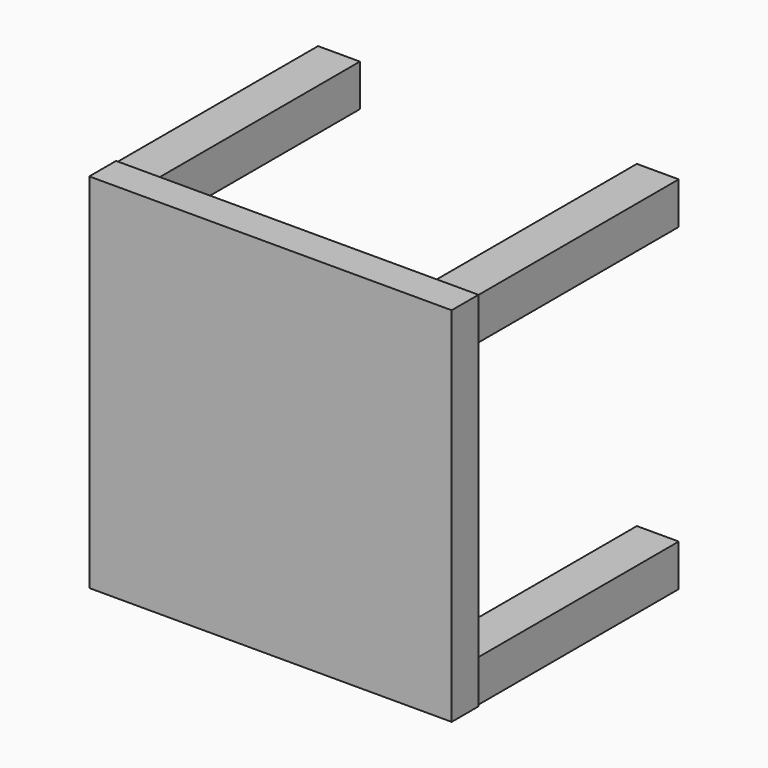
from build123d import *

# Parameters (mm, degrees)
F0_W     = 549.275
F0_H     = 549.275
F0_W_2   = 63.5
F0_H_2   = 63.5
F1_DEPTH = 50.8
F2_DEPTH = 381


with BuildPart() as f1:
    # F0 (on Front) → F1 (new body)
    with BuildSketch(Plane.XZ):
        Rectangle(F0_W, F0_H)
        with Locations((-241.6175, -241.6175)):
            Rectangle(F0_W_2, F0_H_2, mode=Mode.SUBTRACT)
        with Locations((241.6175, -241.6175)):
            Rectangle(F0_W_2, F0_H_2, mode=Mode.SUBTRACT)
        with Locations((-241.6175, 241.6175)):
            Rectangle(F0_W_2, F0_H_2, mode=Mode.SUBTRACT)
        with Locations((241.6175, 241.6175)):
            Rectangle(F0_W_2, F0_H_2, mode=Mode.SUBTRACT)
        with Locations((241.6175, 241.6175)):
            Rectangle(F0_W_2, F0_H_2)
        with Locations((-241.6175, 241.6175)):
            Rectangle(F0_W_2, F0_H_2)
        with Locations((-241.6175, -241.6175)):
            Rectangle(F0_W_2, F0_H_2)
        with Locations((241.6175, -241.6175)):
            Rectangle(F0_W_2, F0_H_2)
    extrude(amount=F1_DEPTH)

    # F0 (on Front) → F2 (join)
    with BuildSketch(Plane.XZ):
        with Locations((-241.6175, 241.6175)):
            Rectangle(F0_W_2, F0_H_2)
        with Locations((241.6175, 241.6175)):
            Rectangle(F0_W_2, F0_H_2)
        with Locations((241.6175, -241.6175)):
            Rectangle(F0_W_2, F0_H_2)
        with Locations((-241.6175, -241.6175)):
            Rectangle(F0_W_2, F0_H_2)
    extrude(amount=-F2_DEPTH)


solid = f1.part
